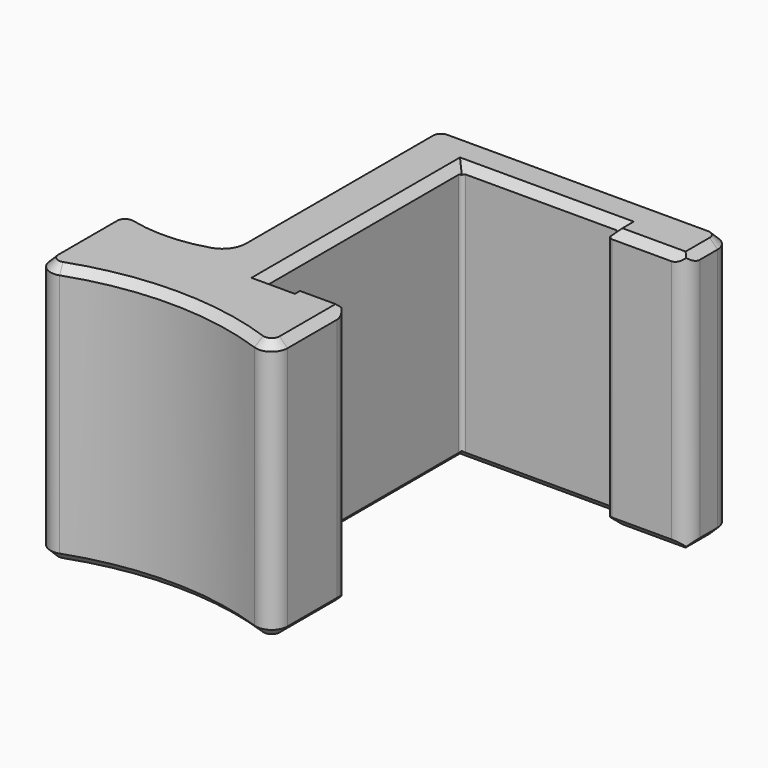
from build123d import *

# Parameters (mm, degrees)
F0_W     = 6.5
F0_H     = 0.8
F1_DEPTH = 33
F2_SIZE  = 1
F3_R     = 2
F4_R     = 0.5


with BuildPart() as f1:
    # F0 (on Top) → F1 (new body)
    with BuildSketch(Plane.XY):
        with BuildLine():
            Line((-5, -24.553516), (-5, -15.5))
            Line((-5, -15.5), (-11.5, -15.5))
            Line((-11.5, -15.5), (-15, -15.5))
            Line((-15, -15.5), (-15, 15.5))
            Line((-15, 15.5), (5, 15.5))
            Line((5, 15.5), (5, 13.7))
            Line((5, 13.7), (15, 13.7))
            Line((15, 13.7), (15, 15.5))
            Line((15, 15.5), (15, 18.5))
            ThreePointArc((15, 18.5), (14.414214, 19.914214), (13, 20.5))
            Line((13, 20.5), (-20, 20.5))
            ThreePointArc((-20, 20.5), (-21.414214, 19.914214), (-22, 18.5))
            Line((-22, 18.5), (-22, -11.10081))
            ThreePointArc((-22, -11.10081), (-22.387548, -12.284026), (-23.4, -13.008688))
            ThreePointArc((-23.4, -13.008688), (-27.942683, -13.782584), (-32.526316, -13.308041))
            ThreePointArc((-32.526316, -13.308041), (-34.235442, -13.678342), (-35, -15.251137))
            Line((-35, -15.251137), (-35, -18.432774))
            Line((-35, -18.432774), (-35, -24.553516))
            ThreePointArc((-35, -24.553516), (-34.154701, -26.18651), (-32.333333, -26.439135))
            ThreePointArc((-32.333333, -26.439135), (-20, -24.323069), (-7.666667, -26.439135))
            ThreePointArc((-7.666667, -26.439135), (-5.845299, -26.18651), (-5, -24.553516))
        make_face()
        with Locations((-8.25, -15.1)):
            Rectangle(F0_W, F0_H)
    extrude(amount=F1_DEPTH)

    # F2
    f2_edges = [f1.edges().sort_by_distance(p)[0] for p in [
        (-20, -24.323069, 33),
        (-5.845299, -26.18651, 33),
        (-5, -19.626758, 33),
        (-8.25, -14.7, 33),
        (-11.5, -15.1, 33),
        (-13.25, -15.5, 33),
        (-15, 0, 33),
        (-5, 15.5, 33),
        (5, 14.6, 33),
        (10, 13.7, 33),
        (15, 16.1, 33),
        (14.414214, 19.914214, 33),
        (-3.5, 20.5, 33),
        (-21.414214, 19.914214, 33),
        (-22, 3.699595, 33),
        (-22.387548, -12.284026, 33),
        (-27.942683, -13.782584, 33),
        (-34.235442, -13.678342, 33),
        (-35, -19.902327, 33),
        (-34.154701, -26.18651, 33),
        (-20, -24.323069, 0),
        (-5.845299, -26.18651, 0),
        (-5, -19.626758, 0),
        (-8.25, -14.7, 0),
        (-11.5, -15.1, 0),
        (-13.25, -15.5, 0),
        (-15, 0, 0),
        (-5, 15.5, 0),
        (5, 14.6, 0),
        (10, 13.7, 0),
        (15, 16.1, 0),
        (14.414214, 19.914214, 0),
        (-3.5, 20.5, 0),
        (-21.414214, 19.914214, 0),
        (-22, 3.699595, 0),
        (-22.387548, -12.284026, 0),
        (-27.942683, -13.782584, 0),
        (-34.235442, -13.678342, 0),
        (-35, -19.902327, 0),
        (-34.154701, -26.18651, 0),
    ]]
    chamfer(f2_edges, length=F2_SIZE)

    # F3
    f3_edges = [f1.edges().sort_by_distance(p)[0] for p in [
        (-5, -14.7, 16.5),
        (15, 13.7, 16.5),
    ]]
    fillet(f3_edges, radius=F3_R)

    # F4
    f4_edges = [f1.edges().sort_by_distance(p)[0] for p in [
        (-11.5, -14.7, 16.5),
        (-15, -15.5, 16.5),
        (-15, 15.5, 16.5),
        (5, 13.7, 16.5),
        (5, 15.5, 16.5),
    ]]
    fillet(f4_edges, radius=F4_R)


solid = f1.part
